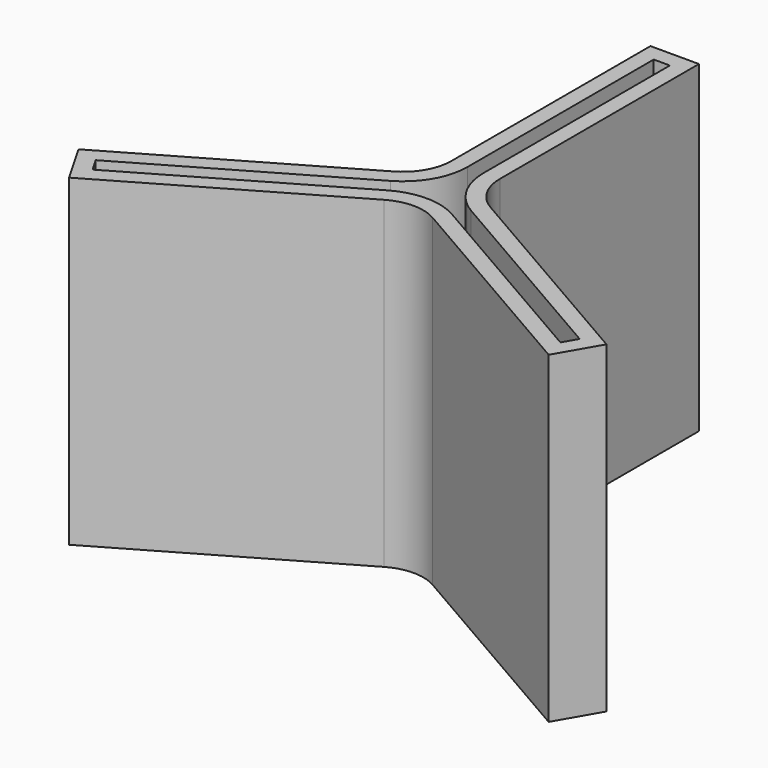
from build123d import *

# Parameters (mm, degrees)
F1_DEPTH = 20
F3_DEPTH = 1


with BuildPart() as f1:
    # F0 (on Top) → F1 (new body)
    with BuildSketch(Plane.XY):
        with BuildLine():
            Line((0.5, 17), (-0.5, 17))
            Line((-0.5, 17), (-0.5, 2.598076))
            ThreePointArc((-0.5, 2.598076), (-1.035898, 0.598076), (-2.5, -0.866025))
            Line((-2.5, -0.866025), (-14.972432, -8.066987))
            Line((-14.972432, -8.066987), (-14.472432, -8.933013))
            Line((-14.472432, -8.933013), (-2, -1.732051))
            ThreePointArc((-2, -1.732051), (0, -1.196152), (2, -1.732051))
            Line((2, -1.732051), (14.472432, -8.933013))
            Line((14.472432, -8.933013), (14.972432, -8.066987))
            Line((14.972432, -8.066987), (2.5, -0.866025))
            ThreePointArc((2.5, -0.866025), (1.035898, 0.598076), (0.5, 2.598076))
            Line((0.5, 2.598076), (0.5, 17))
        make_face()
        with BuildLine():
            Line((1.5, 18), (-1.5, 18))
            Line((-1.5, 18), (-1.5, 2.598076))
            ThreePointArc((-1.5, 2.598076), (-1.901924, 1.098076), (-3, 0))
            Line((-3, 0), (-16.338457, -7.700962))
            Line((-16.338457, -7.700962), (-14.838457, -10.299038))
            Line((-14.838457, -10.299038), (-1.5, -2.598076))
            ThreePointArc((-1.5, -2.598076), (0, -2.196152), (1.5, -2.598076))
            Line((1.5, -2.598076), (14.838457, -10.299038))
            Line((14.838457, -10.299038), (16.338457, -7.700962))
            Line((16.338457, -7.700962), (3, 0))
            ThreePointArc((3, 0), (1.901924, 1.098076), (1.5, 2.598076))
            Line((1.5, 2.598076), (1.5, 18))
        make_face()
        with BuildLine():
            Line((-0.5, 2.598076), (-0.5, 17))
            Line((-0.5, 17), (0.5, 17))
            Line((0.5, 17), (0.5, 2.598076))
            ThreePointArc((0.5, 2.598076), (1.035898, 0.598076), (2.5, -0.866025))
            Line((2.5, -0.866025), (14.972432, -8.066987))
            Line((14.972432, -8.066987), (14.472432, -8.933013))
            Line((14.472432, -8.933013), (2, -1.732051))
            ThreePointArc((2, -1.732051), (0, -1.196152), (-2, -1.732051))
            Line((-2, -1.732051), (-14.472432, -8.933013))
            Line((-14.472432, -8.933013), (-14.972432, -8.066987))
            Line((-14.972432, -8.066987), (-2.5, -0.866025))
            ThreePointArc((-2.5, -0.866025), (-1.035898, 0.598076), (-0.5, 2.598076))
        make_face(mode=Mode.SUBTRACT)
    extrude(amount=F1_DEPTH)

    # F2 (on face) → F3 (join)
    with BuildSketch(Plane(origin=(0, 0, 0), x_dir=(1, 0, 0), z_dir=(0, 0, -1))):
        with BuildLine():
            Line((-0.5, -2.598076), (-0.5, -17))
            Line((-0.5, -17), (0.5, -17))
            Line((0.5, -17), (0.5, -2.598076))
            ThreePointArc((0.5, -2.598076), (1.035898, -0.598076), (2.5, 0.866025))
            Line((2.5, 0.866025), (14.972432, 8.066987))
            Line((14.972432, 8.066987), (14.472432, 8.933013))
            Line((14.472432, 8.933013), (2, 1.732051))
            ThreePointArc((2, 1.732051), (0, 1.196152), (-2, 1.732051))
            Line((-2, 1.732051), (-14.472432, 8.933013))
            Line((-14.472432, 8.933013), (-14.972432, 8.066987))
            Line((-14.972432, 8.066987), (-2.5, 0.866025))
            ThreePointArc((-2.5, 0.866025), (-1.035898, -0.598076), (-0.5, -2.598076))
        make_face()
    extrude(amount=-F3_DEPTH)


solid = f1.part
